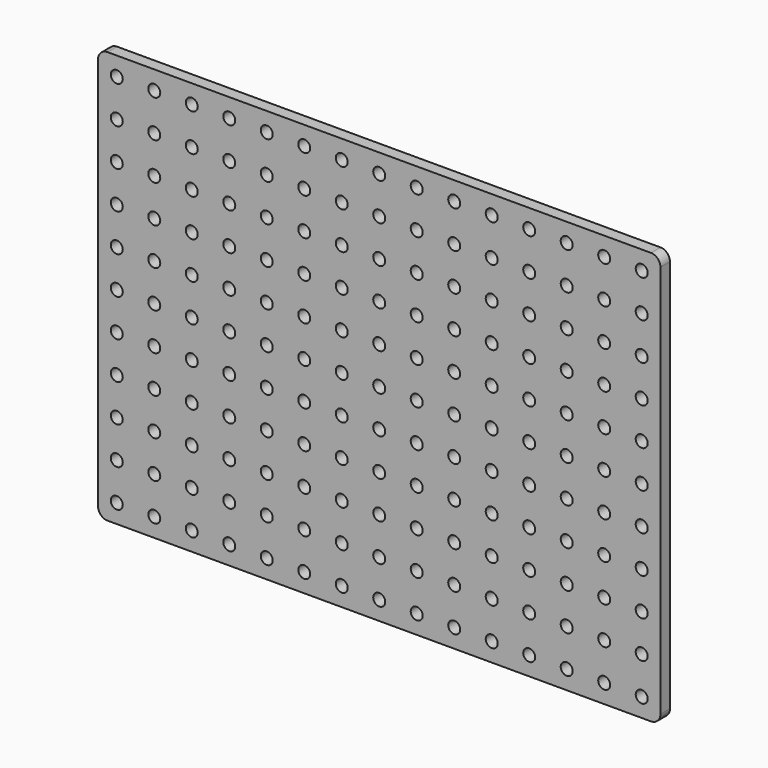
from build123d import *

# Parameters (mm, degrees)
F0_R     = 1.6
F1_DEPTH = 3.175


with BuildPart() as f1:
    # F0 (on Front) → F1 (new body)
    with BuildSketch(Plane.XZ):
        with BuildLine():
            Line((147.46, 0), (2.54, 0))
            ThreePointArc((2.54, 0), (0.743949, -0.743949), (0, -2.54))
            Line((0, -2.54), (0, -107.46))
            ThreePointArc((0, -107.46), (0.743949, -109.256051), (2.54, -110))
            Line((2.54, -110), (147.46, -110))
            ThreePointArc((147.46, -110), (149.256051, -109.256051), (150, -107.46))
            Line((150, -107.46), (150, -2.54))
            ThreePointArc((150, -2.54), (149.256051, -0.743949), (147.46, 0))
        make_face()
        with Locations((5, -105)):
            Circle(F0_R, mode=Mode.SUBTRACT)
        with Locations((15, -105)):
            Circle(F0_R, mode=Mode.SUBTRACT)
        with Locations((25, -105)):
            Circle(F0_R, mode=Mode.SUBTRACT)
        with Locations((35, -105)):
            Circle(F0_R, mode=Mode.SUBTRACT)
        with Locations((5, -95)):
            Circle(F0_R, mode=Mode.SUBTRACT)
        with Locations((15, -95)):
            Circle(F0_R, mode=Mode.SUBTRACT)
        with Locations((5, -85)):
            Circle(F0_R, mode=Mode.SUBTRACT)
        with Locations((15, -85)):
            Circle(F0_R, mode=Mode.SUBTRACT)
        with Locations((25, -95)):
            Circle(F0_R, mode=Mode.SUBTRACT)
        with Locations((35, -95)):
            Circle(F0_R, mode=Mode.SUBTRACT)
        with Locations((25, -85)):
            Circle(F0_R, mode=Mode.SUBTRACT)
        with Locations((35, -85)):
            Circle(F0_R, mode=Mode.SUBTRACT)
        with Locations((45, -105)):
            Circle(F0_R, mode=Mode.SUBTRACT)
        with Locations((55, -105)):
            Circle(F0_R, mode=Mode.SUBTRACT)
        with Locations((65, -105)):
            Circle(F0_R, mode=Mode.SUBTRACT)
        with Locations((45, -95)):
            Circle(F0_R, mode=Mode.SUBTRACT)
        with Locations((55, -95)):
            Circle(F0_R, mode=Mode.SUBTRACT)
        with Locations((45, -85)):
            Circle(F0_R, mode=Mode.SUBTRACT)
        with Locations((55, -85)):
            Circle(F0_R, mode=Mode.SUBTRACT)
        with Locations((65, -95)):
            Circle(F0_R, mode=Mode.SUBTRACT)
        with Locations((65, -85)):
            Circle(F0_R, mode=Mode.SUBTRACT)
        with Locations((5, -75)):
            Circle(F0_R, mode=Mode.SUBTRACT)
        with Locations((15, -75)):
            Circle(F0_R, mode=Mode.SUBTRACT)
        with Locations((25, -75)):
            Circle(F0_R, mode=Mode.SUBTRACT)
        with Locations((35, -75)):
            Circle(F0_R, mode=Mode.SUBTRACT)
        with Locations((5, -65)):
            Circle(F0_R, mode=Mode.SUBTRACT)
        with Locations((15, -65)):
            Circle(F0_R, mode=Mode.SUBTRACT)
        with Locations((25, -65)):
            Circle(F0_R, mode=Mode.SUBTRACT)
        with Locations((35, -65)):
            Circle(F0_R, mode=Mode.SUBTRACT)
        with Locations((45, -75)):
            Circle(F0_R, mode=Mode.SUBTRACT)
        with Locations((55, -75)):
            Circle(F0_R, mode=Mode.SUBTRACT)
        with Locations((65, -75)):
            Circle(F0_R, mode=Mode.SUBTRACT)
        with Locations((45, -65)):
            Circle(F0_R, mode=Mode.SUBTRACT)
        with Locations((55, -65)):
            Circle(F0_R, mode=Mode.SUBTRACT)
        with Locations((65, -65)):
            Circle(F0_R, mode=Mode.SUBTRACT)
        with Locations((75, -105)):
            Circle(F0_R, mode=Mode.SUBTRACT)
        with Locations((85, -105)):
            Circle(F0_R, mode=Mode.SUBTRACT)
        with Locations((95, -105)):
            Circle(F0_R, mode=Mode.SUBTRACT)
        with Locations((105, -105)):
            Circle(F0_R, mode=Mode.SUBTRACT)
        with Locations((75, -95)):
            Circle(F0_R, mode=Mode.SUBTRACT)
        with Locations((85, -95)):
            Circle(F0_R, mode=Mode.SUBTRACT)
        with Locations((75, -85)):
            Circle(F0_R, mode=Mode.SUBTRACT)
        with Locations((85, -85)):
            Circle(F0_R, mode=Mode.SUBTRACT)
        with Locations((95, -95)):
            Circle(F0_R, mode=Mode.SUBTRACT)
        with Locations((105, -95)):
            Circle(F0_R, mode=Mode.SUBTRACT)
        with Locations((95, -85)):
            Circle(F0_R, mode=Mode.SUBTRACT)
        with Locations((105, -85)):
            Circle(F0_R, mode=Mode.SUBTRACT)
        with Locations((115, -105)):
            Circle(F0_R, mode=Mode.SUBTRACT)
        with Locations((125, -105)):
            Circle(F0_R, mode=Mode.SUBTRACT)
        with Locations((135, -105)):
            Circle(F0_R, mode=Mode.SUBTRACT)
        with Locations((145, -105)):
            Circle(F0_R, mode=Mode.SUBTRACT)
        with Locations((115, -95)):
            Circle(F0_R, mode=Mode.SUBTRACT)
        with Locations((125, -95)):
            Circle(F0_R, mode=Mode.SUBTRACT)
        with Locations((115, -85)):
            Circle(F0_R, mode=Mode.SUBTRACT)
        with Locations((125, -85)):
            Circle(F0_R, mode=Mode.SUBTRACT)
        with Locations((135, -95)):
            Circle(F0_R, mode=Mode.SUBTRACT)
        with Locations((145, -95)):
            Circle(F0_R, mode=Mode.SUBTRACT)
        with Locations((135, -85)):
            Circle(F0_R, mode=Mode.SUBTRACT)
        with Locations((145, -85)):
            Circle(F0_R, mode=Mode.SUBTRACT)
        with Locations((75, -75)):
            Circle(F0_R, mode=Mode.SUBTRACT)
        with Locations((85, -75)):
            Circle(F0_R, mode=Mode.SUBTRACT)
        with Locations((95, -75)):
            Circle(F0_R, mode=Mode.SUBTRACT)
        with Locations((105, -75)):
            Circle(F0_R, mode=Mode.SUBTRACT)
        with Locations((75, -65)):
            Circle(F0_R, mode=Mode.SUBTRACT)
        with Locations((85, -65)):
            Circle(F0_R, mode=Mode.SUBTRACT)
        with Locations((95, -65)):
            Circle(F0_R, mode=Mode.SUBTRACT)
        with Locations((105, -65)):
            Circle(F0_R, mode=Mode.SUBTRACT)
        with Locations((115, -75)):
            Circle(F0_R, mode=Mode.SUBTRACT)
        with Locations((125, -75)):
            Circle(F0_R, mode=Mode.SUBTRACT)
        with Locations((135, -75)):
            Circle(F0_R, mode=Mode.SUBTRACT)
        with Locations((145, -75)):
            Circle(F0_R, mode=Mode.SUBTRACT)
        with Locations((115, -65)):
            Circle(F0_R, mode=Mode.SUBTRACT)
        with Locations((125, -65)):
            Circle(F0_R, mode=Mode.SUBTRACT)
        with Locations((135, -65)):
            Circle(F0_R, mode=Mode.SUBTRACT)
        with Locations((145, -65)):
            Circle(F0_R, mode=Mode.SUBTRACT)
        with Locations((5, -55)):
            Circle(F0_R, mode=Mode.SUBTRACT)
        with Locations((15, -55)):
            Circle(F0_R, mode=Mode.SUBTRACT)
        with Locations((5, -45)):
            Circle(F0_R, mode=Mode.SUBTRACT)
        with Locations((15, -45)):
            Circle(F0_R, mode=Mode.SUBTRACT)
        with Locations((25, -55)):
            Circle(F0_R, mode=Mode.SUBTRACT)
        with Locations((35, -55)):
            Circle(F0_R, mode=Mode.SUBTRACT)
        with Locations((25, -45)):
            Circle(F0_R, mode=Mode.SUBTRACT)
        with Locations((35, -45)):
            Circle(F0_R, mode=Mode.SUBTRACT)
        with Locations((5, -35)):
            Circle(F0_R, mode=Mode.SUBTRACT)
        with Locations((15, -35)):
            Circle(F0_R, mode=Mode.SUBTRACT)
        with Locations((25, -35)):
            Circle(F0_R, mode=Mode.SUBTRACT)
        with Locations((35, -35)):
            Circle(F0_R, mode=Mode.SUBTRACT)
        with Locations((45, -55)):
            Circle(F0_R, mode=Mode.SUBTRACT)
        with Locations((55, -55)):
            Circle(F0_R, mode=Mode.SUBTRACT)
        with Locations((45, -45)):
            Circle(F0_R, mode=Mode.SUBTRACT)
        with Locations((55, -45)):
            Circle(F0_R, mode=Mode.SUBTRACT)
        with Locations((65, -55)):
            Circle(F0_R, mode=Mode.SUBTRACT)
        with Locations((65, -45)):
            Circle(F0_R, mode=Mode.SUBTRACT)
        with Locations((45, -35)):
            Circle(F0_R, mode=Mode.SUBTRACT)
        with Locations((55, -35)):
            Circle(F0_R, mode=Mode.SUBTRACT)
        with Locations((65, -35)):
            Circle(F0_R, mode=Mode.SUBTRACT)
        with Locations((5, -25)):
            Circle(F0_R, mode=Mode.SUBTRACT)
        with Locations((15, -25)):
            Circle(F0_R, mode=Mode.SUBTRACT)
        with Locations((5, -15)):
            Circle(F0_R, mode=Mode.SUBTRACT)
        with Locations((15, -15)):
            Circle(F0_R, mode=Mode.SUBTRACT)
        with Locations((25, -25)):
            Circle(F0_R, mode=Mode.SUBTRACT)
        with Locations((35, -25)):
            Circle(F0_R, mode=Mode.SUBTRACT)
        with Locations((25, -15)):
            Circle(F0_R, mode=Mode.SUBTRACT)
        with Locations((35, -15)):
            Circle(F0_R, mode=Mode.SUBTRACT)
        with Locations((5, -5)):
            Circle(F0_R, mode=Mode.SUBTRACT)
        with Locations((15, -5)):
            Circle(F0_R, mode=Mode.SUBTRACT)
        with Locations((25, -5)):
            Circle(F0_R, mode=Mode.SUBTRACT)
        with Locations((35, -5)):
            Circle(F0_R, mode=Mode.SUBTRACT)
        with Locations((45, -25)):
            Circle(F0_R, mode=Mode.SUBTRACT)
        with Locations((55, -25)):
            Circle(F0_R, mode=Mode.SUBTRACT)
        with Locations((45, -15)):
            Circle(F0_R, mode=Mode.SUBTRACT)
        with Locations((55, -15)):
            Circle(F0_R, mode=Mode.SUBTRACT)
        with Locations((65, -25)):
            Circle(F0_R, mode=Mode.SUBTRACT)
        with Locations((65, -15)):
            Circle(F0_R, mode=Mode.SUBTRACT)
        with Locations((45, -5)):
            Circle(F0_R, mode=Mode.SUBTRACT)
        with Locations((55, -5)):
            Circle(F0_R, mode=Mode.SUBTRACT)
        with Locations((65, -5)):
            Circle(F0_R, mode=Mode.SUBTRACT)
        with Locations((75, -55)):
            Circle(F0_R, mode=Mode.SUBTRACT)
        with Locations((85, -55)):
            Circle(F0_R, mode=Mode.SUBTRACT)
        with Locations((75, -45)):
            Circle(F0_R, mode=Mode.SUBTRACT)
        with Locations((85, -45)):
            Circle(F0_R, mode=Mode.SUBTRACT)
        with Locations((95, -55)):
            Circle(F0_R, mode=Mode.SUBTRACT)
        with Locations((105, -55)):
            Circle(F0_R, mode=Mode.SUBTRACT)
        with Locations((95, -45)):
            Circle(F0_R, mode=Mode.SUBTRACT)
        with Locations((105, -45)):
            Circle(F0_R, mode=Mode.SUBTRACT)
        with Locations((75, -35)):
            Circle(F0_R, mode=Mode.SUBTRACT)
        with Locations((85, -35)):
            Circle(F0_R, mode=Mode.SUBTRACT)
        with Locations((95, -35)):
            Circle(F0_R, mode=Mode.SUBTRACT)
        with Locations((105, -35)):
            Circle(F0_R, mode=Mode.SUBTRACT)
        with Locations((115, -55)):
            Circle(F0_R, mode=Mode.SUBTRACT)
        with Locations((125, -55)):
            Circle(F0_R, mode=Mode.SUBTRACT)
        with Locations((115, -45)):
            Circle(F0_R, mode=Mode.SUBTRACT)
        with Locations((125, -45)):
            Circle(F0_R, mode=Mode.SUBTRACT)
        with Locations((135, -55)):
            Circle(F0_R, mode=Mode.SUBTRACT)
        with Locations((145, -55)):
            Circle(F0_R, mode=Mode.SUBTRACT)
        with Locations((135, -45)):
            Circle(F0_R, mode=Mode.SUBTRACT)
        with Locations((145, -45)):
            Circle(F0_R, mode=Mode.SUBTRACT)
        with Locations((115, -35)):
            Circle(F0_R, mode=Mode.SUBTRACT)
        with Locations((125, -35)):
            Circle(F0_R, mode=Mode.SUBTRACT)
        with Locations((135, -35)):
            Circle(F0_R, mode=Mode.SUBTRACT)
        with Locations((145, -35)):
            Circle(F0_R, mode=Mode.SUBTRACT)
        with Locations((75, -25)):
            Circle(F0_R, mode=Mode.SUBTRACT)
        with Locations((85, -25)):
            Circle(F0_R, mode=Mode.SUBTRACT)
        with Locations((75, -15)):
            Circle(F0_R, mode=Mode.SUBTRACT)
        with Locations((85, -15)):
            Circle(F0_R, mode=Mode.SUBTRACT)
        with Locations((95, -25)):
            Circle(F0_R, mode=Mode.SUBTRACT)
        with Locations((105, -25)):
            Circle(F0_R, mode=Mode.SUBTRACT)
        with Locations((95, -15)):
            Circle(F0_R, mode=Mode.SUBTRACT)
        with Locations((105, -15)):
            Circle(F0_R, mode=Mode.SUBTRACT)
        with Locations((75, -5)):
            Circle(F0_R, mode=Mode.SUBTRACT)
        with Locations((85, -5)):
            Circle(F0_R, mode=Mode.SUBTRACT)
        with Locations((95, -5)):
            Circle(F0_R, mode=Mode.SUBTRACT)
        with Locations((105, -5)):
            Circle(F0_R, mode=Mode.SUBTRACT)
        with Locations((115, -25)):
            Circle(F0_R, mode=Mode.SUBTRACT)
        with Locations((125, -25)):
            Circle(F0_R, mode=Mode.SUBTRACT)
        with Locations((115, -15)):
            Circle(F0_R, mode=Mode.SUBTRACT)
        with Locations((125, -15)):
            Circle(F0_R, mode=Mode.SUBTRACT)
        with Locations((135, -25)):
            Circle(F0_R, mode=Mode.SUBTRACT)
        with Locations((145, -25)):
            Circle(F0_R, mode=Mode.SUBTRACT)
        with Locations((135, -15)):
            Circle(F0_R, mode=Mode.SUBTRACT)
        with Locations((145, -15)):
            Circle(F0_R, mode=Mode.SUBTRACT)
        with Locations((115, -5)):
            Circle(F0_R, mode=Mode.SUBTRACT)
        with Locations((125, -5)):
            Circle(F0_R, mode=Mode.SUBTRACT)
        with Locations((135, -5)):
            Circle(F0_R, mode=Mode.SUBTRACT)
        with Locations((145, -5)):
            Circle(F0_R, mode=Mode.SUBTRACT)
    extrude(amount=F1_DEPTH)


solid = f1.part
